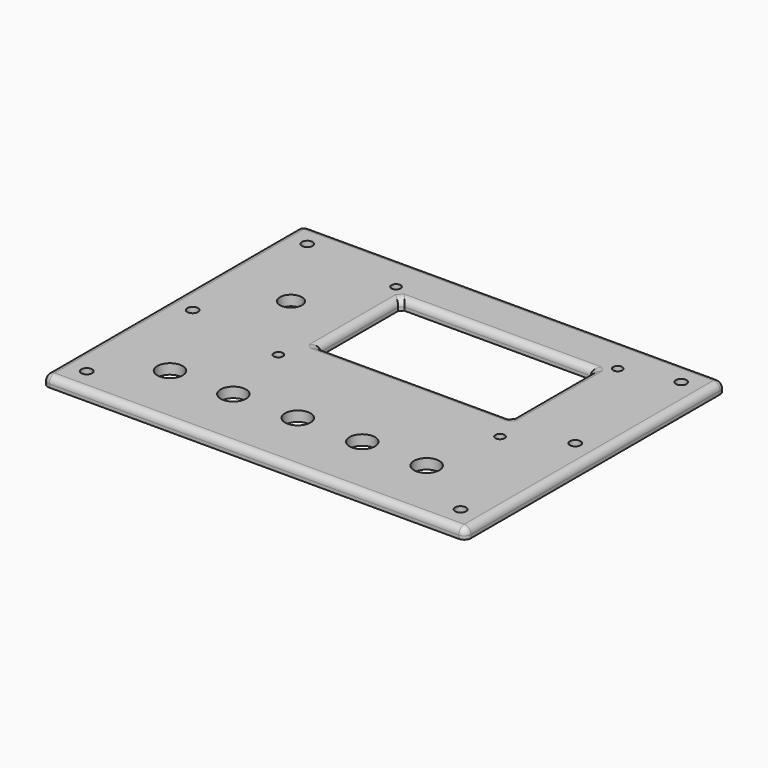
from build123d import *

# Parameters (mm, degrees)
SKETCH015_W      = 125.000379
SKETCH015_H      = 96.004006
EXTRUDE013_DEPTH = 3
SKETCH004_R      = 3.75
HOLE001_DEPTH    = 3
SKETCH005_R      = 3.25
HOLE002_DEPTH    = 3
SKETCH007_R      = 3.75
HOLE003_DEPTH    = 3
SKETCH006_R      = 1.35
HOLE004_DEPTH    = 3
SKETCH008_W      = 57.1
SKETCH008_H      = 30.66
POCKET_DEPTH     = 3
SKETCH021_R      = 1.6
HOLE007_DEPTH    = 3
HOLE007_TIPS_R   = 1.6
FILLET_R         = 2
FILLET001_R      = 2
CHAMFER_SIZE     = 1


with BuildPart() as part:
    # Sketch015 → Extrude013 (new body)
    with BuildSketch(Plane.XY):
        with Locations((15.049815, 71.702003)):
            Rectangle(SKETCH015_W, SKETCH015_H)
    extrude(amount=EXTRUDE013_DEPTH)

    # Sketch004 (on Face6 of Extrude013) → Hole001 (cut)
    with BuildSketch(Plane.XY.offset(3)):
        with Locations((-25.4, 43.200001)):
            Circle(SKETCH004_R)
    extrude(amount=-HOLE001_DEPTH, mode=Mode.SUBTRACT)

    # Sketch005 (on Face5 of Hole001) → Hole002 (cut)
    with BuildSketch(Plane.XY.offset(3)):
        with Locations((-25.299999, 87.769998)):
            Circle(SKETCH005_R)
    extrude(amount=-HOLE002_DEPTH, mode=Mode.SUBTRACT)

    # Sketch007 (on Face5 of Hole002) → Hole003 (cut)
    with BuildSketch(Plane.XY.offset(3)):
        with Locations((-6.67, 43.199999)):
            Circle(SKETCH007_R)
        with Locations((12.368629, 43.200002)):
            Circle(SKETCH007_R)
        with Locations((31.429999, 43.199999)):
            Circle(SKETCH007_R)
        with Locations((50.469999, 43.199999)):
            Circle(SKETCH007_R)
    extrude(amount=-HOLE003_DEPTH, mode=Mode.SUBTRACT)

    # Sketch006 (on Face5 of Hole003) → Hole004 (cut)
    with BuildSketch(Plane.XY.offset(3)):
        with Locations((-10.85, 65.069999)):
            Circle(SKETCH006_R)
        with Locations((54.649999, 65.069999)):
            Circle(SKETCH006_R)
        with Locations((54.649999, 108.529998)):
            Circle(SKETCH006_R)
        with Locations((-10.85, 108.519998)):
            Circle(SKETCH006_R)
    extrude(amount=-HOLE004_DEPTH, mode=Mode.SUBTRACT)

    # Sketch008 (on Face5 of Hole004) → Pocket (cut)
    with BuildSketch(Plane.XY.offset(3)):
        with Locations((22.05, 89.549998)):
            Rectangle(SKETCH008_W, SKETCH008_H)
    extrude(amount=-POCKET_DEPTH, mode=Mode.SUBTRACT)

    # Sketch021 (on Face5 of Pocket) → Hole007 (cut)
    with BuildSketch(Plane.XY.offset(3)):
        with Locations((-40.227337, 30.97648)):
            Circle(SKETCH021_R)
        with Locations((-40.231945, 70.133278)):
            Circle(SKETCH021_R)
        with Locations((-40.231026, 112.471214)):
            Circle(SKETCH021_R)
        with Locations((70.273193, 112.478386)):
            Circle(SKETCH021_R)
        with Locations((70.276276, 73.322159)):
            Circle(SKETCH021_R)
        with Locations((70.272247, 30.977751)):
            Circle(SKETCH021_R)
    extrude(amount=-HOLE007_DEPTH, mode=Mode.SUBTRACT)

    # Hole007 tips → Hole007 tip 1 section 0
    with BuildSketch(Plane.XY, mode=Mode.PRIVATE) as hole007_tip_1_s0:
        with Locations((-40.227337, 30.97648)):
            Circle(HOLE007_TIPS_R)
    loft([hole007_tip_1_s0.sketch, Vertex(-40.227337, 30.97648, -0.961377)], mode=Mode.SUBTRACT)

    # Hole007 tips → Hole007 tip 2 section 0
    with BuildSketch(Plane.XY, mode=Mode.PRIVATE) as hole007_tip_2_s0:
        with Locations((-40.231945, 70.133278)):
            Circle(HOLE007_TIPS_R)
    loft([hole007_tip_2_s0.sketch, Vertex(-40.231945, 70.133278, -0.961377)], mode=Mode.SUBTRACT)

    # Hole007 tips → Hole007 tip 3 section 0
    with BuildSketch(Plane.XY, mode=Mode.PRIVATE) as hole007_tip_3_s0:
        with Locations((-40.231026, 112.471214)):
            Circle(HOLE007_TIPS_R)
    loft([hole007_tip_3_s0.sketch, Vertex(-40.231026, 112.471214, -0.961377)], mode=Mode.SUBTRACT)

    # Hole007 tips → Hole007 tip 4 section 0
    with BuildSketch(Plane.XY, mode=Mode.PRIVATE) as hole007_tip_4_s0:
        with Locations((70.273193, 112.478386)):
            Circle(HOLE007_TIPS_R)
    loft([hole007_tip_4_s0.sketch, Vertex(70.273193, 112.478386, -0.961377)], mode=Mode.SUBTRACT)

    # Hole007 tips → Hole007 tip 5 section 0
    with BuildSketch(Plane.XY, mode=Mode.PRIVATE) as hole007_tip_5_s0:
        with Locations((70.276276, 73.322159)):
            Circle(HOLE007_TIPS_R)
    loft([hole007_tip_5_s0.sketch, Vertex(70.276276, 73.322159, -0.961377)], mode=Mode.SUBTRACT)

    # Hole007 tips → Hole007 tip 6 section 0
    with BuildSketch(Plane.XY, mode=Mode.PRIVATE) as hole007_tip_6_s0:
        with Locations((70.272247, 30.977751)):
            Circle(HOLE007_TIPS_R)
    loft([hole007_tip_6_s0.sketch, Vertex(70.272247, 30.977751, -0.961377)], mode=Mode.SUBTRACT)

    # Fillet
    fillet_edges = [part.edges().sort_by_distance(p)[0] for p in [
        (15.049814, 23.7, 3),
        (-47.450375, 23.7, 1.5),
        (-47.450375, 71.702003, 3),
        (-47.450375, 119.704006, 1.5),
        (15.049814, 119.704006, 3),
        (77.550004, 119.704006, 1.5),
        (77.550004, 71.702003, 3),
        (77.550004, 23.7, 1.5),
    ]]
    fillet(fillet_edges, radius=FILLET_R)

    # Fillet001
    fillet001_edges = [part.edges().sort_by_distance(p)[0] for p in [
        (-6.5, 89.549998, 3),
        (22.05, 104.879998, 3),
        (50.6, 89.549998, 3),
        (22.05, 74.219998, 3),
    ]]
    fillet(fillet001_edges, radius=FILLET001_R)

    # Chamfer
    chamfer_edges = [part.edges().sort_by_distance(p)[0] for p in [
        (51.307902, 105.5879, 2.526592),
        (51.307902, 73.512096, 2.526592),
        (-7.207902, 73.512096, 2.526592),
        (-7.207902, 105.5879, 2.526592),
    ]]
    chamfer(chamfer_edges, length=CHAMFER_SIZE)


with BuildPart() as part_1:
    # Body001 placement: moved
    add(part.part.moved(Location((0, 0, 24.7))))


solid = part_1.part
